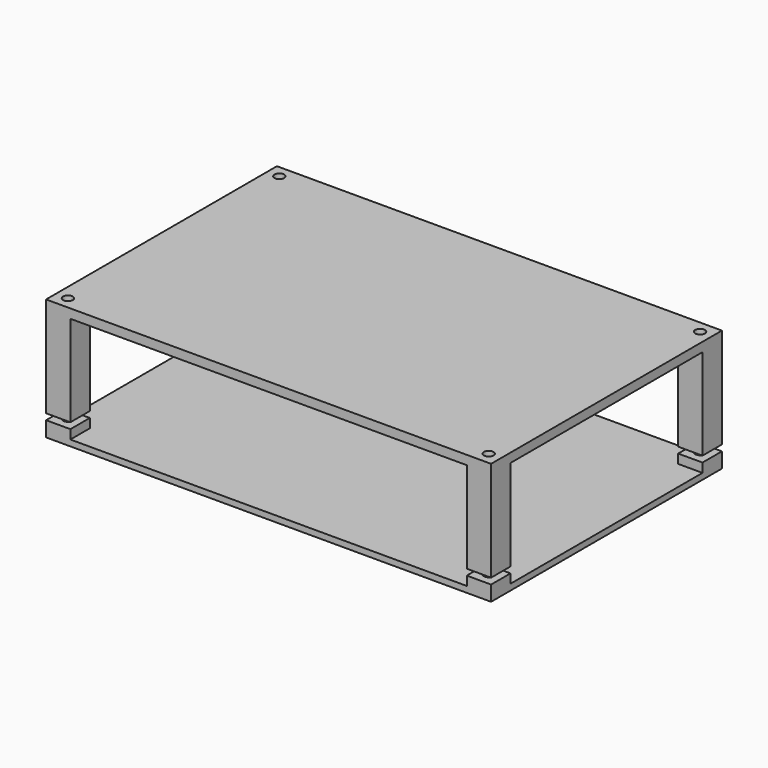
from build123d import *

# Parameters (mm, degrees)
SKETCH_W     = 146.5
SKETCH_H     = 95
SKETCH_R     = 1.6
PAD_DEPTH    = 2
SKETCH001_W  = 8
SKETCH001_H  = 8
SKETCH001_R  = 1.6
PAD001_DEPTH = 3
SKETCH002_W  = 146.5
SKETCH002_H  = 95
SKETCH002_R  = 1.6
PAD002_DEPTH = 3
SKETCH003_W  = 8
SKETCH003_H  = 8
SKETCH003_R  = 1.6
PAD003_DEPTH = 30


with BuildPart() as pad001:
    # Sketch → Pad (new body)
    with BuildSketch(Plane.XY):
        Rectangle(SKETCH_W, SKETCH_H)
        with Locations((-69.25, -43.5)):
            Circle(SKETCH_R, mode=Mode.SUBTRACT)
        with Locations((69.25, 43.5)):
            Circle(SKETCH_R, mode=Mode.SUBTRACT)
        with Locations((69.25, -43.5)):
            Circle(SKETCH_R, mode=Mode.SUBTRACT)
        with Locations((-69.25, 43.5)):
            Circle(SKETCH_R, mode=Mode.SUBTRACT)
    extrude(amount=PAD_DEPTH)

    # Sketch001 → Pad001 (new body)
    with BuildSketch(Plane.XY.offset(2)):
        with Locations((-69.25, 43.5)):
            Rectangle(SKETCH001_W, SKETCH001_H)
        with Locations((-69.25, 43.5)):
            Circle(SKETCH001_R, mode=Mode.SUBTRACT)
        with Locations((69.25, 43.5)):
            Rectangle(SKETCH001_W, SKETCH001_H)
        with Locations((69.25, 43.5)):
            Circle(SKETCH001_R, mode=Mode.SUBTRACT)
        with Locations((69.25, -43.5)):
            Rectangle(SKETCH001_W, SKETCH001_H)
        with Locations((69.25, -43.5)):
            Circle(SKETCH001_R, mode=Mode.SUBTRACT)
        with Locations((-69.25, -43.5)):
            Rectangle(SKETCH001_W, SKETCH001_H)
        with Locations((-69.25, -43.5)):
            Circle(SKETCH001_R, mode=Mode.SUBTRACT)
    extrude(amount=PAD001_DEPTH)


with BuildPart() as pad003:
    # Sketch002 → Pad002 (new body)
    with BuildSketch(Plane(origin=(0, 0, 40), x_dir=(1, 0, 0), z_dir=(0, 0, -1))):
        Rectangle(SKETCH002_W, SKETCH002_H)
        with Locations((-69.25, -43.5)):
            Circle(SKETCH002_R, mode=Mode.SUBTRACT)
        with Locations((69.25, 43.5)):
            Circle(SKETCH002_R, mode=Mode.SUBTRACT)
        with Locations((69.25, -43.5)):
            Circle(SKETCH002_R, mode=Mode.SUBTRACT)
        with Locations((-69.25, 43.5)):
            Circle(SKETCH002_R, mode=Mode.SUBTRACT)
    extrude(amount=PAD002_DEPTH)

    # Sketch003 → Pad003 (new body)
    with BuildSketch(Plane(origin=(0, 0, 37), x_dir=(1, 0, 0), z_dir=(0, 0, -1))):
        with Locations((-69.25, 43.5)):
            Rectangle(SKETCH003_W, SKETCH003_H)
        with Locations((-69.25, 43.5)):
            Circle(SKETCH003_R, mode=Mode.SUBTRACT)
        with Locations((69.25, 43.5)):
            Rectangle(SKETCH003_W, SKETCH003_H)
        with Locations((69.25, 43.5)):
            Circle(SKETCH003_R, mode=Mode.SUBTRACT)
        with Locations((69.25, -43.5)):
            Rectangle(SKETCH003_W, SKETCH003_H)
        with Locations((69.25, -43.5)):
            Circle(SKETCH003_R, mode=Mode.SUBTRACT)
        with Locations((-69.25, -43.5)):
            Rectangle(SKETCH003_W, SKETCH003_H)
        with Locations((-69.25, -43.5)):
            Circle(SKETCH003_R, mode=Mode.SUBTRACT)
    extrude(amount=PAD003_DEPTH)


solid = Compound([pad001.part, pad003.part])
